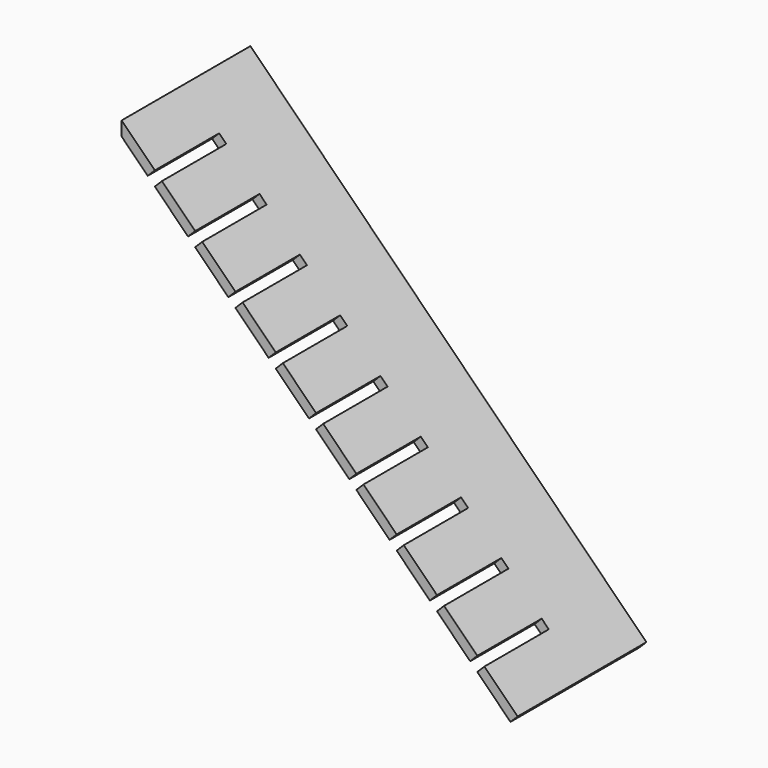
from build123d import *

# Parameters (mm, degrees)
F1_DEPTH = 152.4
F2_W     = 19.05
F2_H     = 152.4
F3_DEPTH = 19.05


with BuildPart() as f1:
    # F0 (on Front) → F1 (new body, symmetric)
    with BuildSketch(Plane.XZ):
        Polygon((-341.4117142798, 817.0427565066), (-341.4117142798, 790.1019881433), (394.9692876479, 53.7209862157), (408.4396718295, 67.1913703973), align=None)
    extrude(amount=F1_DEPTH, both=True)

    # F2 (on face) → F3 (cut)
    with BuildSketch(Plane(origin=(237.8155211134, 0, 237.8155211134), x_dir=(0.7071067812, 0, -0.7071067812), z_dir=(0.7071067812, 0, 0.7071067812))):
        with Locations((-720.7260119889, -76.2)):
            Rectangle(F2_W, F2_H)
        with Locations((-612.7760119889, -76.2)):
            Rectangle(F2_W, F2_H)
        with Locations((-504.8260119889, -76.2)):
            Rectangle(F2_W, F2_H)
        with Locations((-396.8760119889, -76.2)):
            Rectangle(F2_W, F2_H)
        with Locations((-288.9260119889, -76.2)):
            Rectangle(F2_W, F2_H)
        with Locations((-180.9760119889, -76.2)):
            Rectangle(F2_W, F2_H)
        with Locations((-73.0260119889, -76.2)):
            Rectangle(F2_W, F2_H)
        with Locations((34.9239880111, -76.2)):
            Rectangle(F2_W, F2_H)
        with Locations((142.8739880111, -76.2)):
            Rectangle(F2_W, F2_H)
    extrude(amount=-F3_DEPTH, mode=Mode.SUBTRACT)


solid = f1.part
